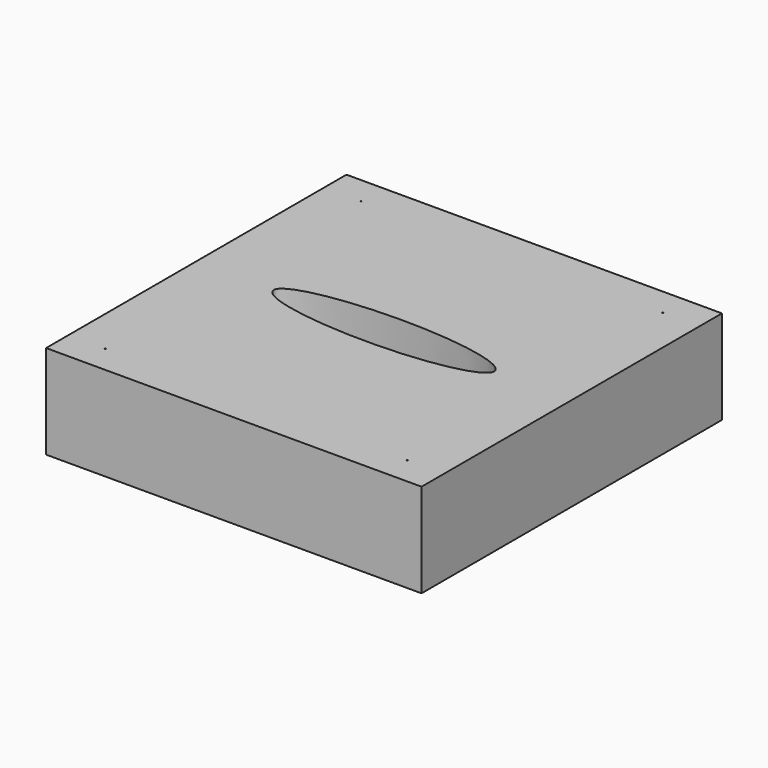
from build123d import *

# Parameters (mm, degrees)
F0_W           = 101.6
F0_H           = 101.6
F1_DEPTH       = 25.4
F3_D           = 0.3175
F3_CBORE_D     = 1.27
F3_CBORE_DEPTH = 6.35


with BuildPart() as f1:
    # F0 (on Top) → F1 (new body)
    with BuildSketch(Plane.XY):
        Rectangle(F0_W, F0_H)
        with BuildLine():
            add(Edge.make_bspline(
                [(-29.834867, 0), (-29.834867, -10.686521), (14.917433, -5.34326), (59.669733, 0), (14.917433, 5.34326), (-29.834867, 10.686521), (-29.834867, 0)],
                knots=[0, 0, 0, 2.094395, 2.094395, 4.18879, 4.18879, 6.283185, 6.283185, 6.283185], degree=2, weights=[1, 0.5, 1, 0.5, 1, 0.5, 1]))
        make_face(mode=Mode.SUBTRACT)
    extrude(amount=F1_DEPTH)

    # F3 (through all)
    with Locations(Plane(origin=(0, 0, 0), x_dir=(1, 0, 0), z_dir=(0, 0, -1))):
        with Locations((-40.848479, 43.258417), (40.848479, 43.258417), (40.848479, -43.258417), (-40.848479, -43.258417)):
            CounterBoreHole(F3_D / 2, F3_CBORE_D / 2, F3_CBORE_DEPTH)


solid = f1.part
